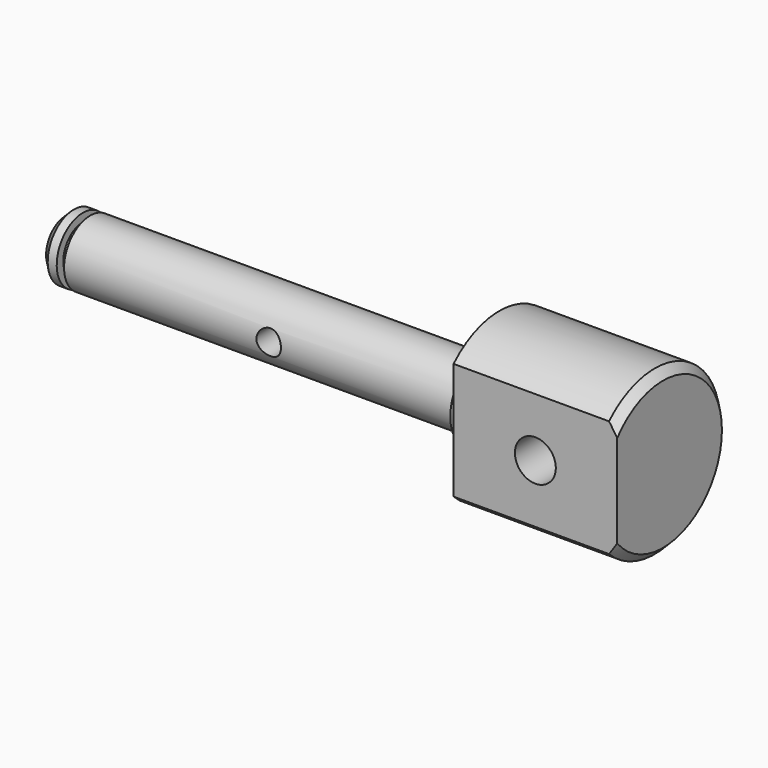
from build123d import *

# Parameters (mm, degrees)
F2_SIZE  = 1
F4_DEPTH = 20
F5_R     = 2.5
F5_R_2   = 1.5
F6_DEPTH = 17.001


with BuildPart() as f1:
    # F0 (on Front) → F1 (revolve)
    with BuildSketch(Plane.XZ):
        Polygon((-53, 0), (0, 0), (20, 0), (20, 10), (0, 10), (0, 5), (-2, 5), (-2, 4), (-50, 4), (-50, 3), (-50.9, 3), (-50.9, 4), (-53, 4), align=None)
    revolve(axis=Axis((-15.901639617, 0, 0), (1, 0, 0)))

    # F2
    f2_edges = [f1.edges().sort_by_distance(p)[0] for p in [
        (-53, 0, -4),
        (20, 0, -10),
    ]]
    chamfer(f2_edges, length=F2_SIZE)

    # F3 (on face) → F4 (cut, through all)
    with BuildSketch(Plane.YZ.offset(20)):
        with BuildLine():
            Line((-7, -7.1414284285), (-7, 7.1414284285))
            ThreePointArc((-7, 7.1414284285), (-10, 0), (-7, -7.1414284285))
        make_face()
    extrude(amount=-F4_DEPTH, mode=Mode.SUBTRACT)

    # F5 (on face) → F6 (cut, through all)
    with BuildSketch(Plane.XZ.offset(7)):
        with Locations((10, 0)):
            Circle(F5_R)
        with Locations((-25, 0)):
            Circle(F5_R_2)
    extrude(amount=-F6_DEPTH, mode=Mode.SUBTRACT)


solid = f1.part
